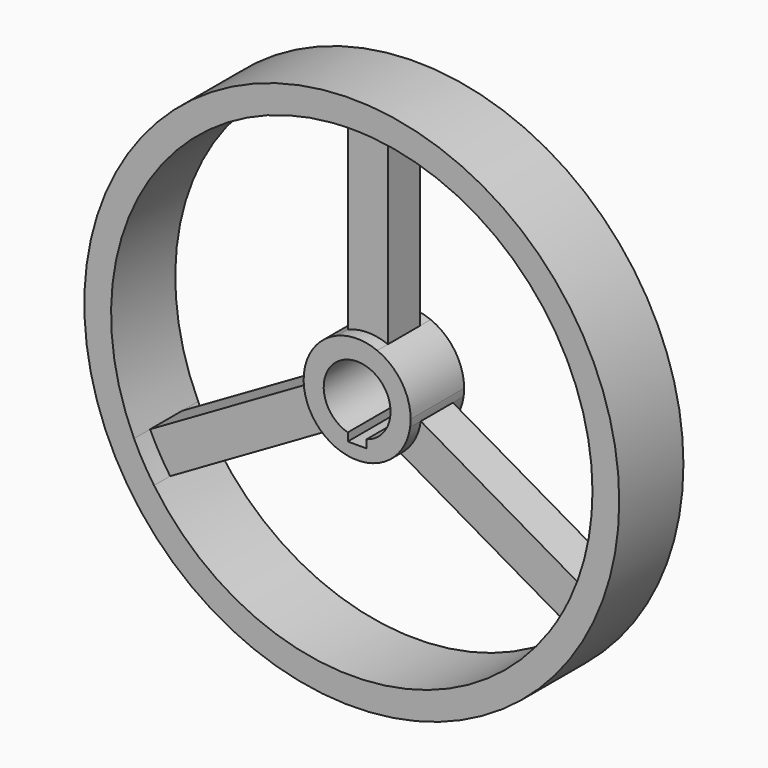
from build123d import *

# Parameters (mm, degrees)
F0_R     = 127
F1_DEPTH = 19.05
F2_DEPTH = 9.525
F3_DEPTH = 15.875


with BuildPart() as f1:
    # F0 (on Front) → F1 (new body, symmetric)
    with BuildSketch(Plane.XZ):
        Circle(F0_R)
        with BuildLine():
            ThreePointArc((9.525, 113.902434), (84.122522, 77.381466), (114.3, 0))
            ThreePointArc((114.3, 0), (111.542974, -24.953054), (103.404901, -48.702325))
            ThreePointArc((103.404901, -48.702325), (98.986704, -57.15), (93.879901, -65.200109))
            ThreePointArc((93.879901, -65.200109), (0, -114.3), (-93.879901, -65.200109))
            ThreePointArc((-93.879901, -65.200109), (-98.986704, -57.15), (-103.404901, -48.702325))
            ThreePointArc((-103.404901, -48.702325), (-98.986704, 57.15), (-9.525, 113.902434))
            ThreePointArc((-9.525, 113.902434), (0, 114.3), (9.525, 113.902434))
        make_face(mode=Mode.SUBTRACT)
    extrude(amount=F1_DEPTH, both=True)

    # F0 (on Front) → F2 (join, symmetric)
    with BuildSketch(Plane.XZ):
        with BuildLine():
            Line((9.525, 23.54643), (9.525, 113.902434))
            ThreePointArc((9.525, 113.902434), (0, 114.3), (-9.525, 113.902434))
            Line((-9.525, 113.902434), (-9.525, 23.54643))
            ThreePointArc((-9.525, 23.54643), (0, 25.4), (9.525, 23.54643))
        make_face()
        with BuildLine():
            Line((-25.154307, -3.524323), (-103.404901, -48.702325))
            ThreePointArc((-103.404901, -48.702325), (-98.986704, -57.15), (-93.879901, -65.200109))
            Line((-93.879901, -65.200109), (-15.629307, -20.022107))
            ThreePointArc((-15.629307, -20.022107), (-21.997045, -12.7), (-25.154307, -3.524323))
        make_face()
        with BuildLine():
            ThreePointArc((93.879901, -65.200109), (98.986704, -57.15), (103.404901, -48.702325))
            Line((103.404901, -48.702325), (25.154307, -3.524323))
            ThreePointArc((25.154307, -3.524323), (21.997045, -12.7), (15.629307, -20.022107))
            Line((15.629307, -20.022107), (93.879901, -65.200109))
        make_face()
    extrude(amount=F2_DEPTH, both=True)

    # F0 (on Front) → F3 (join, symmetric)
    with BuildSketch(Plane.XZ):
        with BuildLine():
            ThreePointArc((25.4, 0), (21.060567, 14.199032), (9.525, 23.54643))
            ThreePointArc((9.525, 23.54643), (0, 25.4), (-9.525, 23.54643))
            ThreePointArc((-9.525, 23.54643), (-21.997045, 12.7), (-25.154307, -3.524323))
            ThreePointArc((-25.154307, -3.524323), (-21.997045, -12.7), (-15.629307, -20.022107))
            ThreePointArc((-15.629307, -20.022107), (0, -25.4), (15.629307, -20.022107))
            ThreePointArc((15.629307, -20.022107), (21.997045, -12.7), (25.154307, -3.524323))
            ThreePointArc((25.154307, -3.524323), (25.338502, -1.766438), (25.4, 0))
        make_face()
        with BuildLine():
            ThreePointArc((-4.445, -15.24), (0, 15.875), (4.445, -15.24))
            Line((4.445, -15.24), (4.445, -19.05))
            Line((4.445, -19.05), (-4.445, -19.05))
            Line((-4.445, -19.05), (-4.445, -15.24))
        make_face(mode=Mode.SUBTRACT)
    extrude(amount=F3_DEPTH, both=True)


solid = f1.part
